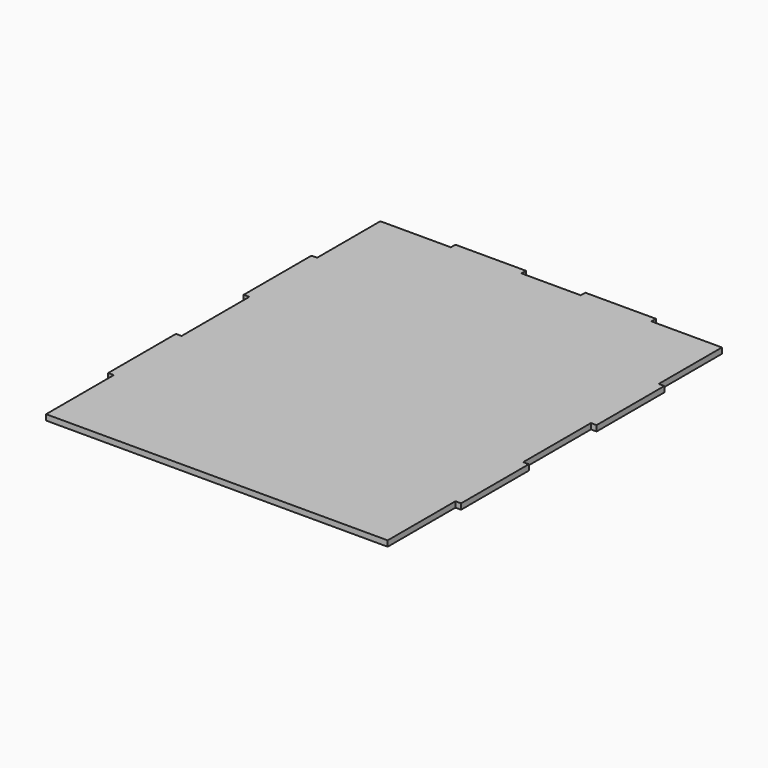
from build123d import *

# Parameters (mm, degrees)
F1_DEPTH = 4


with BuildPart() as f1:
    # F0 (on Top) → F1 (new body)
    with BuildSketch(Plane.XY):
        Polygon((-246, 0), (-4, 0), (-4, 60), (0, 60), (0, 120), (-4, 120), (-4, 180), (0, 180), (0, 240), (-4, 240), (-4, 296), (-54, 296), (-54, 300), (-104, 300), (-104, 296), (-146, 296), (-146, 300), (-196, 300), (-196, 296), (-246, 296), (-246, 240), (-250, 240), (-250, 180), (-246, 180), (-246, 120), (-250, 120), (-250, 60), (-246, 60), align=None)
    extrude(amount=F1_DEPTH)


solid = f1.part
